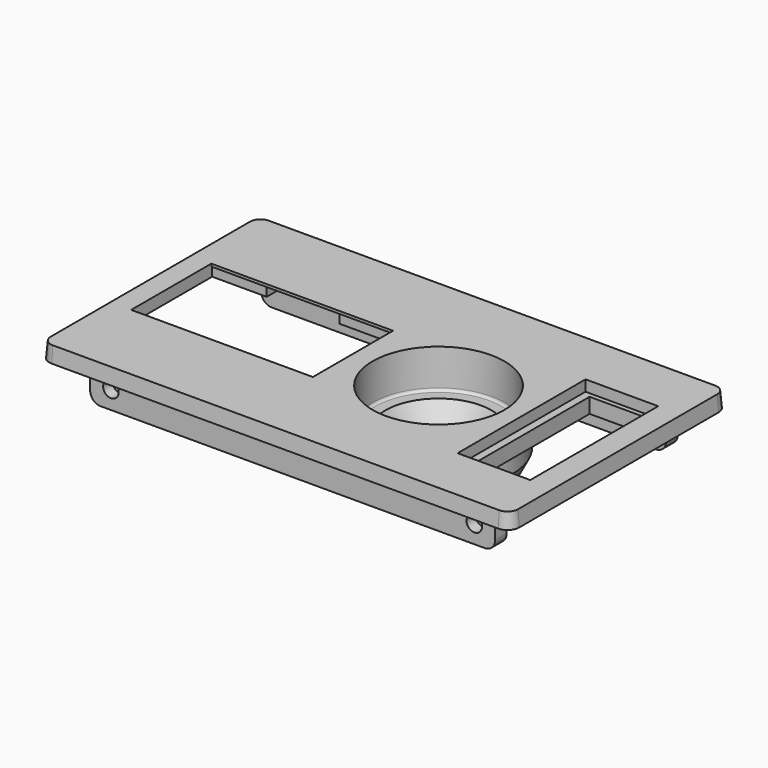
from build123d import *

# Parameters (mm, degrees)
PAD011_DEPTH         = 3
PAD011_TAPER         = -5
PAD012_DEPTH         = 2.8
SKETCH036_R          = 1.5
HOLE001_DEPTH        = 2.2
SKETCH034_R          = 14.1
SKETCH047_R          = 14.1
SKETCH048_R          = 11.28
SKETCH028_R          = 3.5
POCKET010_DEPTH      = 16.001
SKETCH073_R          = 1.4
POCKET023_DEPTH      = 2.5
POCKET019_DEPTH      = 1.2
POCKET012_DEPTH      = 5
SKETCH072_W          = 35
SKETCH072_H          = 19.3
POCKET022_DEPTH      = 16.001
POCKET022_DEPTH_BACK = 0.001
SKETCH_W             = 37
SKETCH_H             = 5
PAD_DEPTH            = 7.5
SKETCH058_W          = 30.8
SKETCH058_H          = 2.1
POCKET_DEPTH         = 7
POCKET021_DEPTH      = 5.5


with BuildPart() as part:
    # Sketch024 → Pad011 (new body)
    with BuildSketch(Plane.XY):
        with BuildLine():
            Line((-45, 24), (-45, -24))
            ThreePointArc((-45, -24), (-44.414214, -25.414214), (-43, -26))
            Line((-43, -26), (43, -26))
            ThreePointArc((43, -26), (44.414214, -25.414214), (45, -24))
            Line((45, -24), (45, 24))
            ThreePointArc((45, 24), (44.414214, 25.414214), (43, 26))
            Line((43, 26), (-43, 26))
            ThreePointArc((-43, 26), (-44.414214, 25.414214), (-45, 24))
        make_face()
    extrude(amount=-PAD011_DEPTH, taper=PAD011_TAPER)

    # Sketch033 → Pad012 (join)
    with BuildSketch(Plane.XZ.offset(-22)):
        with BuildLine():
            Line((-39, 0), (39, 0))
            Line((39, 0), (39, -8))
            ThreePointArc((37, -10), (38.414214, -9.414214), (39, -8))
            Line((37, -10), (-37, -10))
            ThreePointArc((-39, -8), (-38.414214, -9.414214), (-37, -10))
            Line((-39, -8), (-39, 0))
        make_face()
    pad012 = extrude(amount=PAD012_DEPTH)

    # Sketch036 → Hole001 (cut)
    with BuildSketch(Plane.XZ.offset(-22)):
        with Locations((-35, -6.5)):
            Circle(SKETCH036_R)
        with Locations((35, -6.5)):
            Circle(SKETCH036_R)
    hole001 = extrude(amount=HOLE001_DEPTH, mode=Mode.SUBTRACT)

    # Mirrored: Pad012, Hole001 across XZ
    add(pad012.mirror(Plane.XZ))
    add(hole001.mirror(Plane.XZ), mode=Mode.SUBTRACT)

    # Sketch034 → AdditiveLoft section 0
    with BuildSketch(Plane.XY.offset(-3)):
        with Locations((10.5, 0)):
            Circle(SKETCH034_R)
    # Sketch047 → AdditiveLoft section 1
    with BuildSketch(Plane.XY.offset(-10.5)):
        with Locations((10.5, 0)):
            Circle(SKETCH047_R)
    # Sketch048 → AdditiveLoft section 2
    with BuildSketch(Plane.XY.offset(-16)):
        with Locations((10.5, 0)):
            Circle(SKETCH048_R)
    loft(ruled=True)

    # Sketch026 → Groove (revolve, cut)
    with BuildSketch(Plane(origin=(10.5, 0, 0), x_dir=(1, 0, 0), z_dir=(0, -1, 0))):
        with BuildLine():
            Line((0, 0), (12.7, 0))
            Line((12.7, 0), (12.7, -7))
            ThreePointArc((12.2, -7.5), (12.553553, -7.353553), (12.7, -7))
            Line((12.2, -7.5), (10.2, -7.5))
            Line((7.5, -13), (10.2, -7.5))
            Line((0, -13), (7.5, -13))
            Line((0, -13), (0, 0))
        make_face()
    revolve(axis=Axis((10.5, 0, 0), (0, 0, 1)), mode=Mode.SUBTRACT)

    # Sketch028 → Pocket010 (cut, through all)
    with BuildSketch(Plane.XY):
        with Locations((10.5, 0)):
            Circle(SKETCH028_R)
    extrude(amount=-POCKET010_DEPTH, mode=Mode.SUBTRACT)

    # Sketch073 → Pocket023 (cut)
    with BuildSketch(Plane.XY.offset(-16)):
        with Locations((10.5, -8)):
            Circle(SKETCH073_R)
        with Locations((10.5, 8)):
            Circle(SKETCH073_R)
    extrude(amount=POCKET023_DEPTH, mode=Mode.SUBTRACT)

    # Sketch053 → Pocket019 (cut)
    with BuildSketch(Plane.XY.offset(-3.5)):
        with BuildLine():
            Line((-42, 15.175), (-42, -18.925))
            ThreePointArc((-42, -18.925), (-41.941421, -19.066421), (-41.8, -19.125))
            Line((-41.8, -19.125), (-5.2, -19.125))
            ThreePointArc((-5.2, -19.125), (-5.058579, -19.066421), (-5, -18.925))
            Line((-5, -18.925), (-5, 15.175))
            ThreePointArc((-5, 15.175), (-5.058579, 15.316421), (-5.2, 15.375))
            Line((-5.2, 15.375), (-41.8, 15.375))
            ThreePointArc((-41.8, 15.375), (-41.941421, 15.316421), (-42, 15.175))
        make_face()
    extrude(amount=POCKET019_DEPTH, mode=Mode.SUBTRACT)

    # Sketch030 → Pocket012 (cut)
    with BuildSketch(Plane.XY.offset(-0.5)):
        Polygon((-30.5, 15.375), (-16.5, 15.375), (-16.5, 9.875), (-6, 9.875), (-6, -14.125), (-15, -14.125), (-15, -18.125), (-32, -18.125), (-32, -14.125), (-41, -14.125), (-41, 9.875), (-30.5, 9.875), align=None)
    extrude(amount=-POCKET012_DEPTH, mode=Mode.SUBTRACT)

    # Sketch072 → Pocket022 (cut, two sides)
    with BuildSketch(Plane.XY) as pocket022_sk:
        with Locations((-23.5, 0.025)):
            Rectangle(SKETCH072_W, SKETCH072_H)
    extrude(amount=-POCKET022_DEPTH, mode=Mode.SUBTRACT)
    extrude(pocket022_sk.sketch, amount=POCKET022_DEPTH_BACK, mode=Mode.SUBTRACT)

    # Sketch → Pad (join, symmetric)
    with BuildSketch(Plane.YZ.offset(33.5)):
        with Locations((0, -2.5)):
            Rectangle(SKETCH_W, SKETCH_H)
    extrude(amount=PAD_DEPTH, both=True)

    # Sketch058 → Pocket (cut, symmetric)
    with BuildSketch(Plane.YZ.offset(33.5)):
        with Locations((0, -1.05)):
            Rectangle(SKETCH058_W, SKETCH058_H)
    extrude(amount=POCKET_DEPTH, both=True, mode=Mode.SUBTRACT)

    # Sketch059 → Pocket021 (cut, symmetric)
    with BuildSketch(Plane.YZ.offset(33.5)):
        Polygon((-15.4, 0), (-15.4, -2.1), (-14.5, -2.1), (-14.5, -22.1), (14.5, -22.1), (14.5, -2.1), (15.4, -2.1), (15.4, 0), align=None)
    extrude(amount=POCKET021_DEPTH, both=True, mode=Mode.SUBTRACT)


solid = part.part
